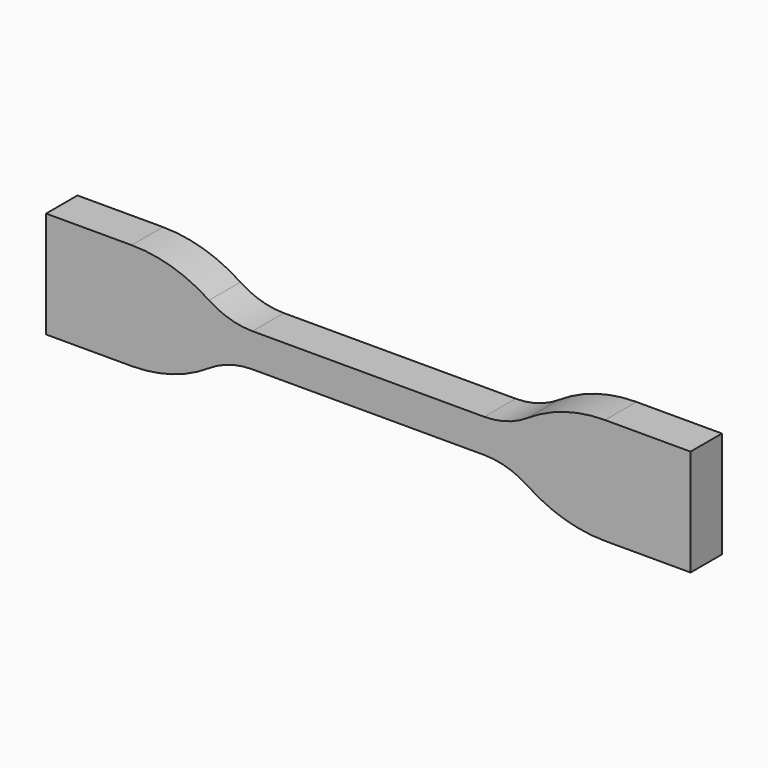
from build123d import *

# Parameters (mm, degrees)
F1_DEPTH = 3.5


with BuildPart() as f1:
    # F0 (on Front) → F1 (new body, symmetric)
    with BuildSketch(Plane.XZ):
        with BuildLine():
            Line((20.67841, 3), (0, 3))
            Line((0, 3), (-20.67841, 3))
            ThreePointArc((-20.67841, 3), (-24.719861, 3.59602), (-28.417201, 5.333333))
            ThreePointArc((-28.417201, 5.333333), (-35.019592, 8.435678), (-42.236471, 9.5))
            Line((-42.236471, 9.5), (-57.5, 9.5))
            Line((-57.5, 9.5), (-57.5, -9.5))
            Line((-57.5, -9.5), (-42.236471, -9.5))
            ThreePointArc((-42.236471, -9.5), (-35.019592, -8.435678), (-28.417201, -5.333333))
            ThreePointArc((-28.417201, -5.333333), (-24.719861, -3.59602), (-20.67841, -3))
            Line((-20.67841, -3), (0, -3))
            Line((0, -3), (20.67841, -3))
            ThreePointArc((20.67841, -3), (24.719861, -3.59602), (28.417201, -5.333333))
            ThreePointArc((28.417201, -5.333333), (35.019592, -8.435678), (42.236471, -9.5))
            Line((42.236471, -9.5), (57.5, -9.5))
            Line((57.5, -9.5), (57.5, 9.5))
            Line((57.5, 9.5), (42.236471, 9.5))
            ThreePointArc((42.236471, 9.5), (35.019592, 8.435678), (28.417201, 5.333333))
            ThreePointArc((28.417201, 5.333333), (24.719861, 3.59602), (20.67841, 3))
        make_face()
    extrude(amount=F1_DEPTH, both=True)


solid = f1.part
